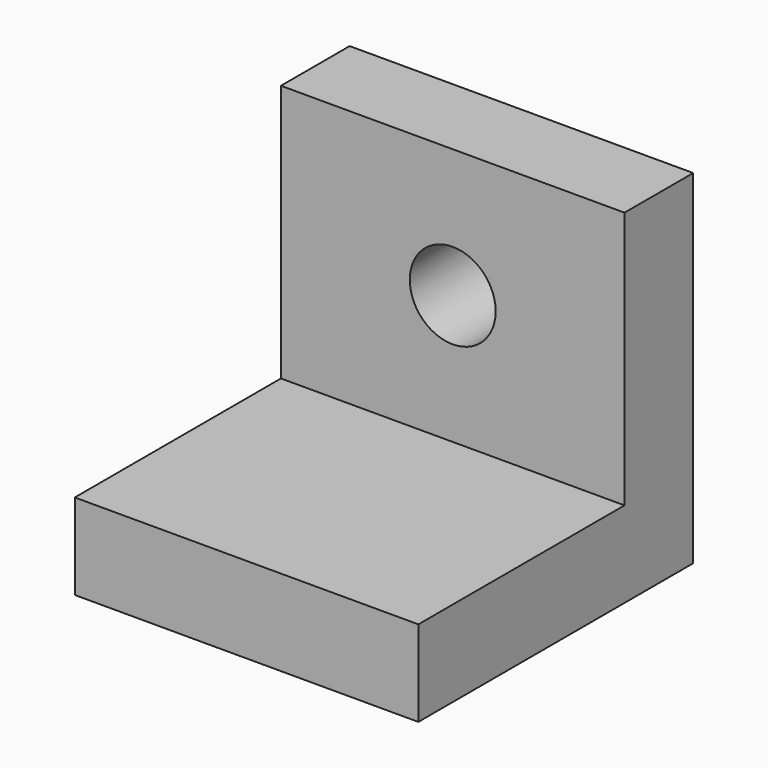
from build123d import *

# Parameters (mm, degrees)
F0_W     = 50.8
F0_H     = 12.7
F1_DEPTH = 50.8
F0_H_2   = 38.1
F2_DEPTH = 12.7
F3_R     = 6.35
F4_DEPTH = 12.7


with BuildPart() as f1:
    # F0 (on Top) → F1 (new body)
    with BuildSketch(Plane.XY):
        with Locations((-7.111999, 31.428751)):
            Rectangle(F0_W, F0_H)
    extrude(amount=F1_DEPTH)

    # F0 (on Top) → F2 (join)
    with BuildSketch(Plane.XY):
        with Locations((-7.111999, 6.028751)):
            Rectangle(F0_W, F0_H_2)
    extrude(amount=F2_DEPTH)

    # F3 (on face) → F4 (cut)
    with BuildSketch(Plane.XZ.offset(-25.078751)):
        with Locations((-7.111999, 31.75)):
            Circle(F3_R)
    extrude(amount=-F4_DEPTH, mode=Mode.SUBTRACT)


solid = f1.part
